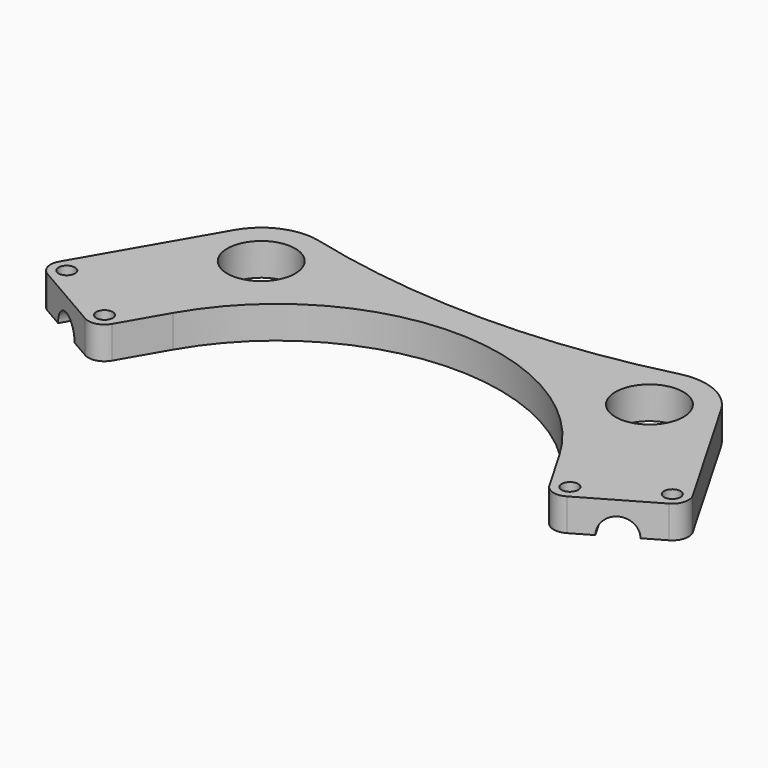
from build123d import *

# Parameters (mm, degrees)
F0_R     = 5.25
F1_DEPTH = 5
F2_R     = 2.75
F3_DEPTH = 15
F4_R     = 2.75
F5_DEPTH = 15
F6_R     = 1.275
F7_DEPTH = 5.001
F8_R     = 2.5


with BuildPart() as f1:
    # F0 (on Top) → F1 (new body)
    with BuildSketch(Plane.XY):
        with BuildLine():
            ThreePointArc((27.8461538462, 8.4807692308), (0, 5), (-27.8461538462, 8.4807692308))
            ThreePointArc((-27.8461538462, 8.4807692308), (-33.4013149384, 8.0618581412), (-37.5777222831, 4.375))
            Line((-37.5777222831, 4.375), (-50.2027222831, -17.4921414456))
            Line((-50.2027222831, -17.4921414456), (-35.0472777169, -26.2421414456))
            Line((-35.0472777169, -26.2421414456), (-29.8445554338, -17.2307621135))
            ThreePointArc((-29.8445554338, -17.2307621135), (0, 0), (29.8445554338, -17.2307621135))
            Line((29.8445554338, -17.2307621135), (35.0472777169, -26.2421414456))
            Line((35.0472777169, -26.2421414456), (50.2027222831, -17.4921414456))
            Line((50.2027222831, -17.4921414456), (37.5777222831, 4.375))
            ThreePointArc((37.5777222831, 4.375), (33.4013149384, 8.0618581412), (27.8461538462, 8.4807692308))
        make_face()
        with Locations((-30, 0)):
            Circle(F0_R, mode=Mode.SUBTRACT)
        with Locations((30, 0)):
            Circle(F0_R, mode=Mode.SUBTRACT)
    extrude(amount=F1_DEPTH)

    # F2 (on face) → F3 (cut)
    with BuildSketch(Plane(origin=(-20.125, -34.8575225023, 0), x_dir=(0.8660254038, -0.5, 0), z_dir=(-0.5, -0.8660254038, 0))):
        with Locations((-25.9807621135, 0)):
            Circle(F2_R)
    extrude(amount=-F3_DEPTH, mode=Mode.SUBTRACT)

    # F4 (on face) → F5 (cut)
    with BuildSketch(Plane(origin=(20.125, -34.8575225023, 0), x_dir=(0.8660254038, 0.5, 0), z_dir=(0.5, -0.8660254038, 0))):
        with Locations((25.9807621135, 0)):
            Circle(F4_R)
    extrude(amount=-F5_DEPTH, mode=Mode.SUBTRACT)

    # F6 (on face) → F7 (cut, through all)
    with BuildSketch(Plane(origin=(0, 0, 0), x_dir=(1, 0, 0), z_dir=(0, 0, -1))):
        with Locations((-46.7876587737, 16.5770779361)):
            Circle(F6_R)
        with Locations((-35.9623412263, 22.8270779361)):
            Circle(F6_R)
        with Locations((35.9623412263, 22.8270779361)):
            Circle(F6_R)
        with Locations((46.7876587737, 16.5770779361)):
            Circle(F6_R)
    extrude(amount=-F7_DEPTH, mode=Mode.SUBTRACT)

    # F8
    f8_edges = [f1.edges().sort_by_distance(p)[0] for p in [
        (-50.202722, -17.492141, 2.5),
        (-35.047278, -26.242141, 2.5),
        (35.047278, -26.242141, 2.5),
        (50.202722, -17.492141, 2.5),
    ]]
    fillet(f8_edges, radius=F8_R)


solid = f1.part
